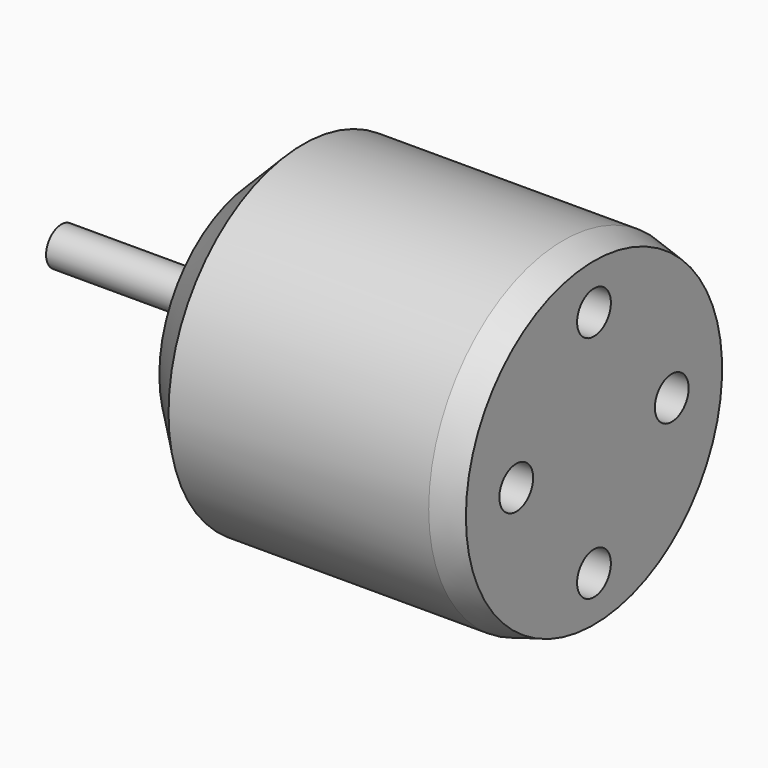
from build123d import *

# Parameters (mm, degrees)
SKETCH072_R             = 13.97
PAD035_DEPTH            = 27.94
CHAMFER_ANGLE           = 15
CHAMFER_SIZE            = 2.54
CHAMFER001_SIZE         = 3.81
SKETCH073_R             = 4.445
PAD036_DEPTH            = 2.032
SKETCH074_R             = 1.5875
PAD037_DEPTH            = 14.224
SKETCH099_R             = 1.7526
POCKET026_DEPTH         = 5.08
BODY028_PLACEMENT_ANGLE = 180


with BuildPart() as part:
    # Sketch072 → Pad035 (new body)
    with BuildSketch(Plane.YZ):
        Circle(SKETCH072_R)
    extrude(amount=PAD035_DEPTH)

    # Chamfer
    chamfer_edges = [part.edges().sort_by_distance(p)[0] for p in [
        (0, -13.97, 0),
    ]]
    chamfer_side = part.faces().sort_by_distance((13.97, -13.97, 0))[0]
    chamfer(chamfer_edges, length=CHAMFER_SIZE, angle=CHAMFER_ANGLE, reference=chamfer_side)

    # Chamfer001
    chamfer001_edges = [part.edges().sort_by_distance(p)[0] for p in [
        (27.94, -13.97, 0),
    ]]
    chamfer(chamfer001_edges, length=CHAMFER001_SIZE)

    # Sketch073 (on Face4 of Chamfer001) → Pad036 (join)
    with BuildSketch(Plane.YZ.offset(27.94)):
        Circle(SKETCH073_R)
    extrude(amount=PAD036_DEPTH)

    # Sketch074 (on Face7 of Pad036) → Pad037 (join)
    with BuildSketch(Plane.YZ.offset(29.972)):
        Circle(SKETCH074_R)
    extrude(amount=PAD037_DEPTH)

    # Sketch099 (on Face5 of Pad037) → Pocket026 (cut)
    with BuildSketch(Plane(origin=(0, 0, 0), x_dir=(0, 1, 0), z_dir=(-1, 0, 0))):
        with Locations((0, 9.525)):
            Circle(SKETCH099_R)
        with Locations((8.0645, 0)):
            Circle(SKETCH099_R)
        with Locations((0, -9.525)):
            Circle(SKETCH099_R)
        with Locations((-8.0645, 0)):
            Circle(SKETCH099_R)
    extrude(amount=-POCKET026_DEPTH, mode=Mode.SUBTRACT)


with BuildPart() as part_1:
    # Body028 placement: moved
    add(part.part.moved(Location((-92.202, 0, 0))).rotate(Axis((-92.202, 0, 0), (0, 0, 1)), BODY028_PLACEMENT_ANGLE))


solid = part_1.part
